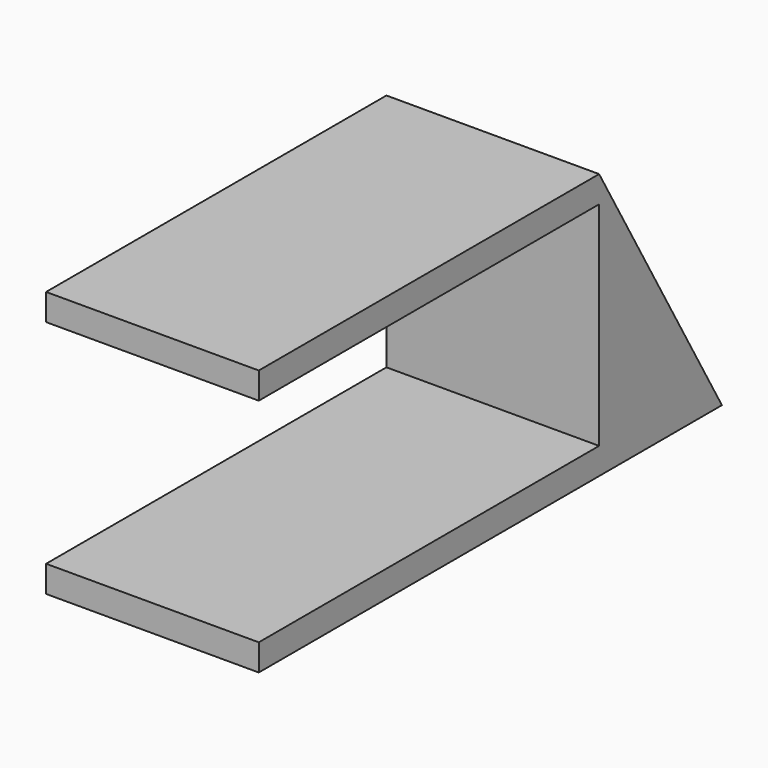
from build123d import *

# Parameters (mm, degrees)
F0_W     = 101.6
F0_H     = 6.35
F1_DEPTH = 50.8


with BuildPart() as f1:
    # F0 (on Right) → F1 (new body)
    with BuildSketch(Plane.YZ):
        Polygon((0, 6.35), (0, 0), (36.661742, 0), (0, 63.5), (-101.6, 63.5), (-101.6, 57.15), (0, 57.15), align=None)
        with Locations((-50.8, 3.175)):
            Rectangle(F0_W, F0_H)
    extrude(amount=F1_DEPTH)


solid = f1.part
